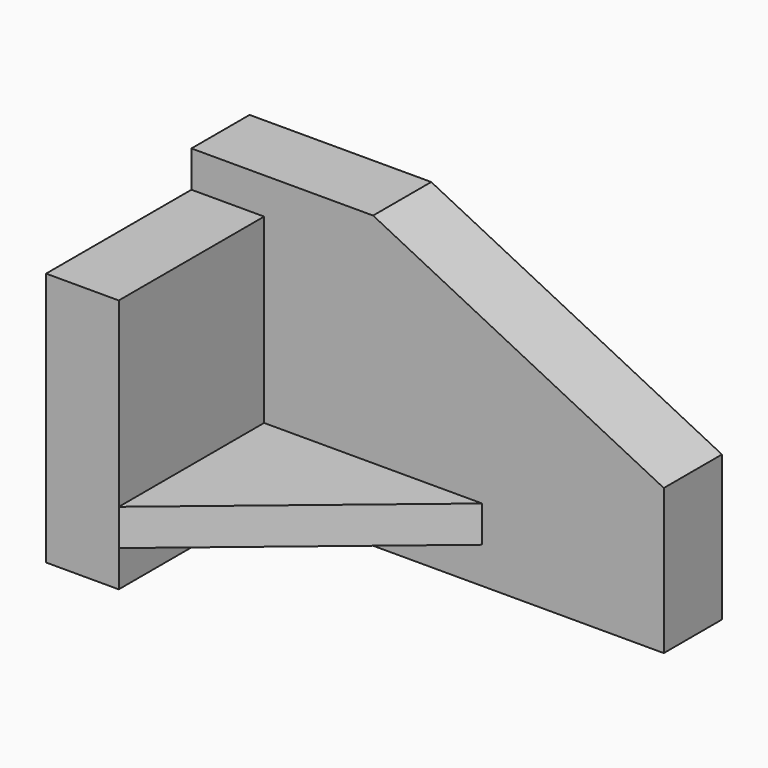
from build123d import *

# Parameters (mm, degrees)
F1_DEPTH = 10
F0_W     = 30
F0_H     = 5
F2_DEPTH = 35
F4_DEPTH = 10.001


with BuildPart() as f1:
    # F0 (on Front) → F1 (new body)
    with BuildSketch(Plane.XZ):
        Polygon((32.5, 0), (-7.5, 20), (-32.5, 20), (-32.5, 15), (-22.5, 15), (-22.5, -10), (7.5, -10), (7.5, -15), (-22.5, -15), (-22.5, -20), (32.5, -20), align=None)
    extrude(amount=F1_DEPTH)

    # F0 (on Front) → F2 (join)
    with BuildSketch(Plane.XZ):
        Polygon((-22.5, 15), (-32.5, 15), (-32.5, -20), (-22.5, -20), (-22.5, -15), (-22.5, -10), align=None)
        with Locations((-7.5, -12.5)):
            Rectangle(F0_W, F0_H)
    extrude(amount=F2_DEPTH)

    # F3 (on face) → F4 (cut, through all)
    with BuildSketch(Plane.XY.offset(-10)):
        Polygon((7.5, -10), (-22.5, -35), (7.5, -35), align=None)
    extrude(amount=-F4_DEPTH, mode=Mode.SUBTRACT)


solid = f1.part
